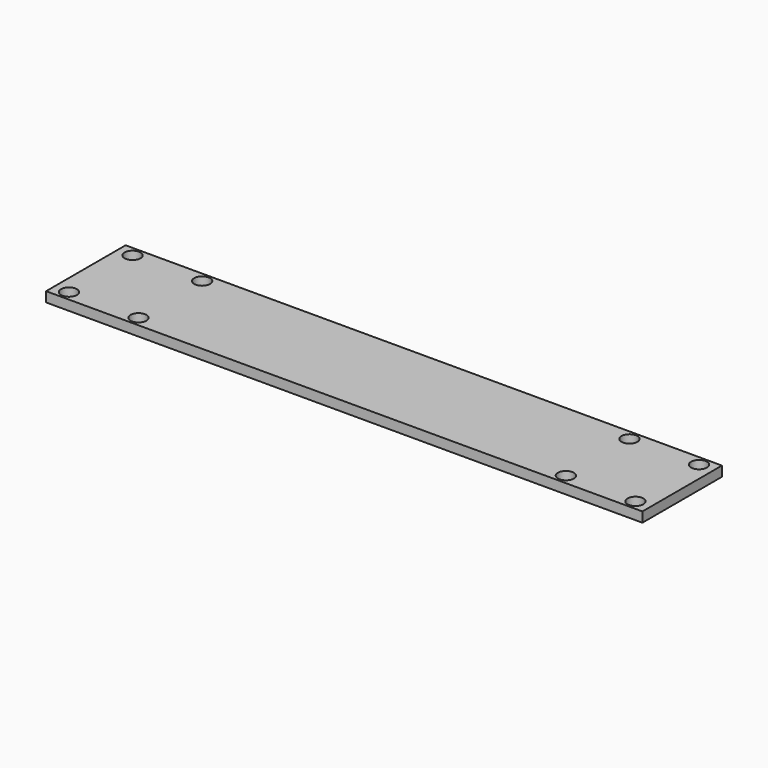
from build123d import *

# Parameters (mm, degrees)
F1_DEPTH = 100
F3_D     = 16
F5_DEPTH = 4


with BuildPart() as f1:
    # F0 (on Front) → F1 (new body)
    with BuildSketch(Plane.XZ):
        Polygon((600, 0), (0, 0), (0, -10), (70, -10), (530, -10), (600, -10), align=None)
    extrude(amount=F1_DEPTH)

    # F3 (through all)
    with Locations(Plane.XY):
        with Locations((15, -10), (15, -90), (85, -10), (85, -90), (515, -10), (515, -90), (585, -90), (585, -10)):
            Hole(F3_D / 2)

    # F4 (on face) → F5 (join)
    with BuildSketch(Plane(origin=(0, 0, -10), x_dir=(1, 0, 0), z_dir=(0, 0, -1))):
        Polygon((102.29281, 57.5), (102.29281, 50), (102.29281, 42.5), (497.85471, 42.5), (497.85471, 50), (497.826087, 57.499945), align=None)
    extrude(amount=F5_DEPTH)


solid = f1.part
